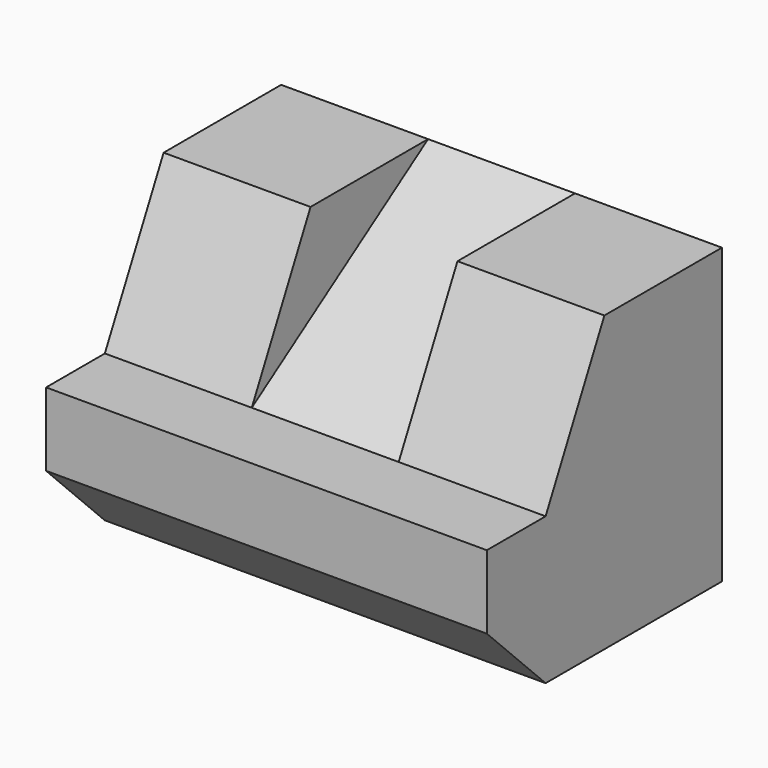
from build123d import *

# Parameters (mm, degrees)
F1_DEPTH = 15
F2_DEPTH = 5


with BuildPart() as f1:
    # F0 (on Right) → F1 (new body)
    with BuildSketch(Plane.YZ):
        Polygon((-15, 0), (0, 0), (0, 20), (-15, 10), (-20, 10), (-20, 5), align=None)
        Polygon((-15, 10), (0, 20), (-10, 20), align=None)
    extrude(amount=F1_DEPTH)

    # F0 (on Right) → F2 (cut)
    with BuildSketch(Plane.YZ):
        Polygon((-15, 10), (0, 20), (-10, 20), align=None)
    extrude(amount=F2_DEPTH, mode=Mode.SUBTRACT)

    # F3: F1 across face


with BuildPart() as f1_1:
    add(f1.part)
    add(f1.part.mirror(Plane(origin=(0, -8.174603, 7.539683), x_dir=(0, 1, 0), z_dir=(-1, 0, 0))))


solid = f1_1.part
